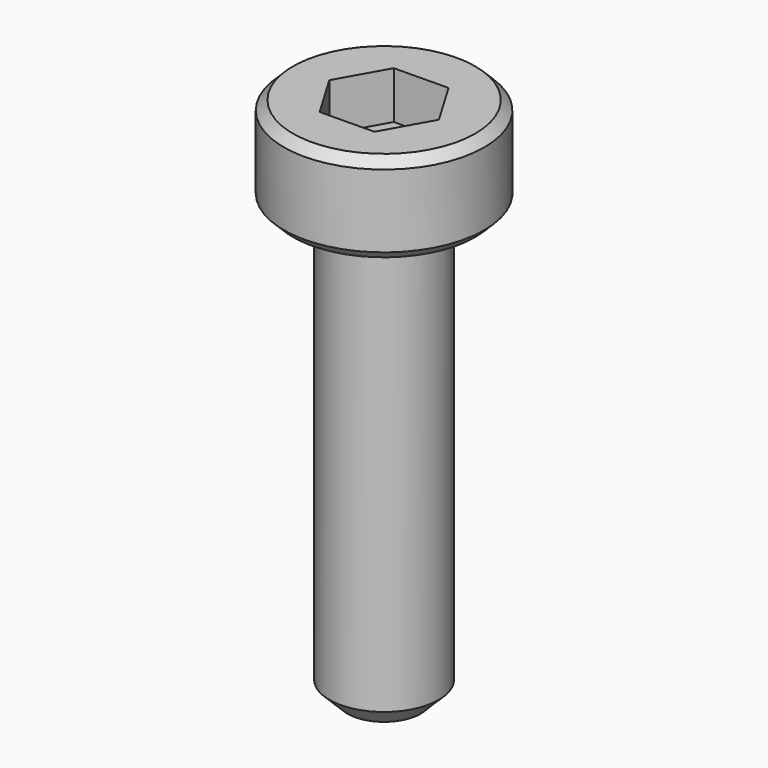
from build123d import *

# Parameters (mm, degrees)
F0_R     = 1.5
F1_DEPTH = 12
F2_SIZE  = 0.5
F0_R_2   = 2.75
F3_DEPTH = 2.5
F4_SIZE  = 0.25
F6_DEPTH = 1.3


with BuildPart() as f1:
    # F0 (on Top) → F1 (new body)
    with BuildSketch(Plane.XY):
        Circle(F0_R)
    extrude(amount=-F1_DEPTH)

    # F2
    f2_edges = [f1.edges().sort_by_distance(p)[0] for p in [
        (-1.5, 0, -12),
    ]]
    chamfer(f2_edges, length=F2_SIZE)

    # F0 (on Top) → F3 (join)
    with BuildSketch(Plane.XY):
        Circle(F0_R_2)
        Circle(F0_R, mode=Mode.SUBTRACT)
        Circle(F0_R)
    extrude(amount=F3_DEPTH)

    # F4
    f4_edges = [f1.edges().sort_by_distance(p)[0] for p in [
        (-2.75, 0, 2.5),
        (-2.75, 0, 0),
    ]]
    chamfer(f4_edges, length=F4_SIZE)

    # F5 (on face) → F6 (cut)
    with BuildSketch(Plane.XY.offset(2.5)):
        Polygon((0.75963, -1.281313), (1.489464, 0.017202), (0.729835, 1.298515), (-0.75963, 1.281313), (-1.489464, -0.017202), (-0.729835, -1.298515), align=None)
    extrude(amount=-F6_DEPTH, mode=Mode.SUBTRACT)


solid = f1.part
